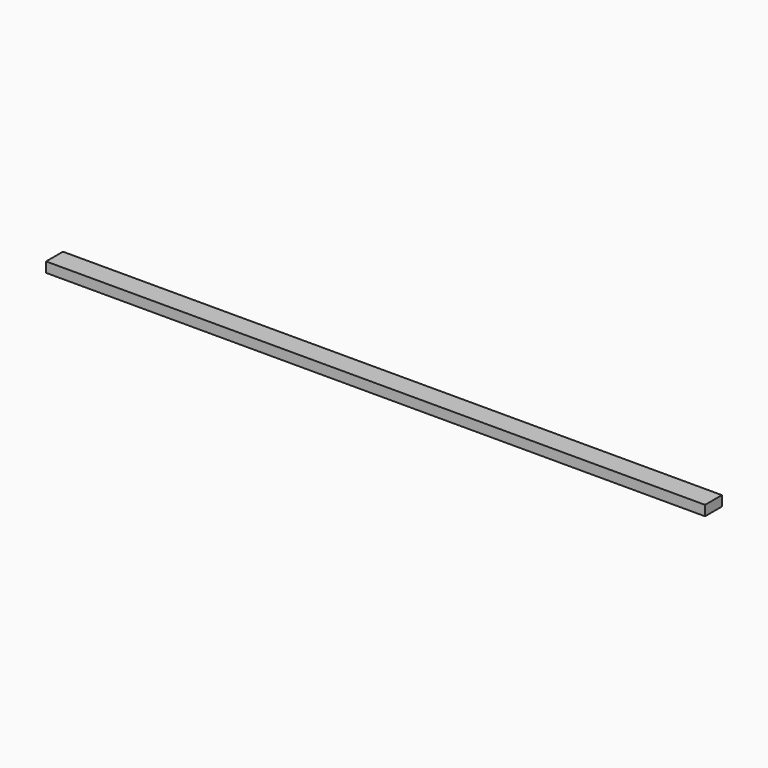
from build123d import *

# Parameters (mm, degrees)
BOX_W     = 1500
BOX_H     = 48
BOX_DEPTH = 23


with BuildPart() as part:
    # Box → Box (new body)
    with BuildSketch(Plane.XY):
        with Locations((750, 24)):
            Rectangle(BOX_W, BOX_H)
    extrude(amount=BOX_DEPTH)


solid = part.part
